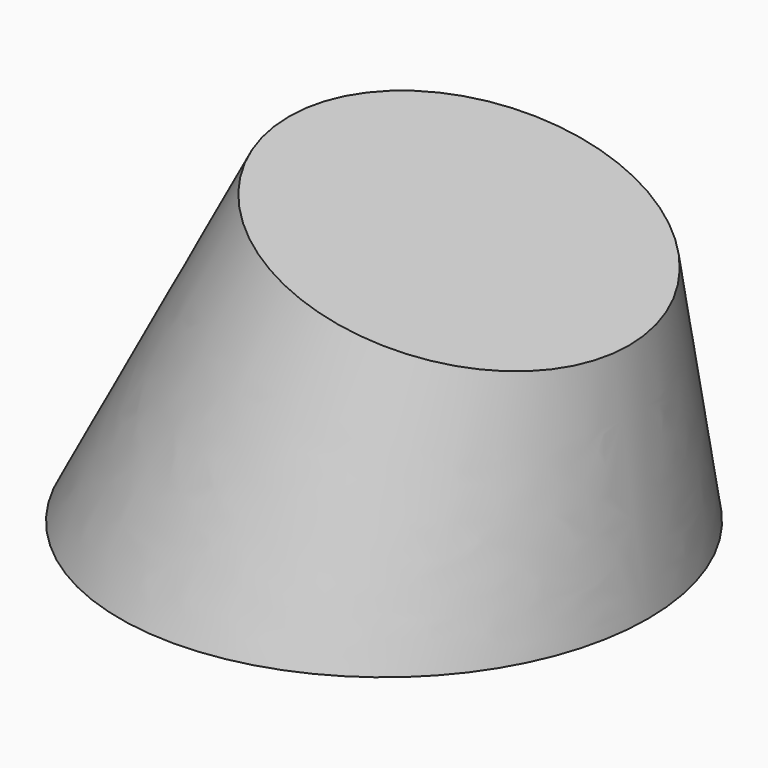
from build123d import *

# Parameters (mm, degrees)
F0_R = 38.1
F3_R = 25.4


with BuildPart() as f4:
    # F0 (on Top) → F4 section 0
    with BuildSketch(Plane.XY):
        Circle(F0_R)
    # F3 (on offset) → F4 section 1
    with BuildSketch(Plane(origin=(10.8276971754, 0, 40.4095159877), x_dir=(0.9659258263, 0, -0.2588190451), z_dir=(-0.2588190451, 0, -0.9659258263))):
        Circle(F3_R)
    loft()


solid = f4.part
